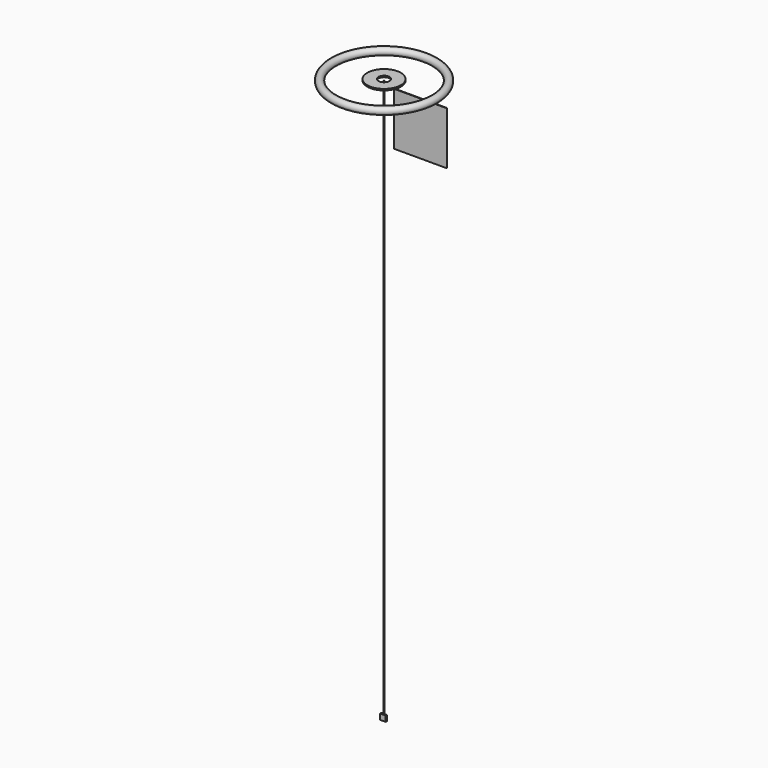
from build123d import *

# Parameters (mm, degrees)
F0_R     = 65
F2_R     = 5
F3_DEPTH = 10000
F4_R     = 300
F4_R_2   = 100
F5_DEPTH = 25
F6_W     = 942
F6_H     = 942
F7_DEPTH = 10
F8_W     = 100
F8_H     = 100
F9_DEPTH = 25


with BuildPart() as f1:
    # F0 (on Front) → F1 (revolve)
    with BuildSketch(Plane.XZ):
        with Locations((900, 0)):
            Circle(F0_R)
    revolve(axis=Axis((0, 0, -222.409502), (0, 0, -1)))


with BuildPart() as f3:
    # F2 (on Top) → F3 (new body)
    with BuildSketch(Plane.XY):
        Circle(F2_R)
    extrude(amount=-F3_DEPTH)

    # F8 (on Front) → F9 (join)
    with BuildSketch(Plane.XZ):
        with Locations((0, -10000)):
            Rectangle(F8_W, F8_H)
    extrude(amount=F9_DEPTH)


with BuildPart() as f5:
    # F4 (on Top) → F5 (new body)
    with BuildSketch(Plane.XY):
        Circle(F4_R)
        Circle(F4_R_2, mode=Mode.SUBTRACT)
    extrude(amount=F5_DEPTH)


with BuildPart() as f7:
    # F6 (on Front) → F7 (new body)
    with BuildSketch(Plane.XZ):
        with Locations((656.513377, -536.180726)):
            Rectangle(F6_W, F6_H)
    extrude(amount=F7_DEPTH)


solid = Compound([f1.part, f3.part, f5.part, f7.part])
